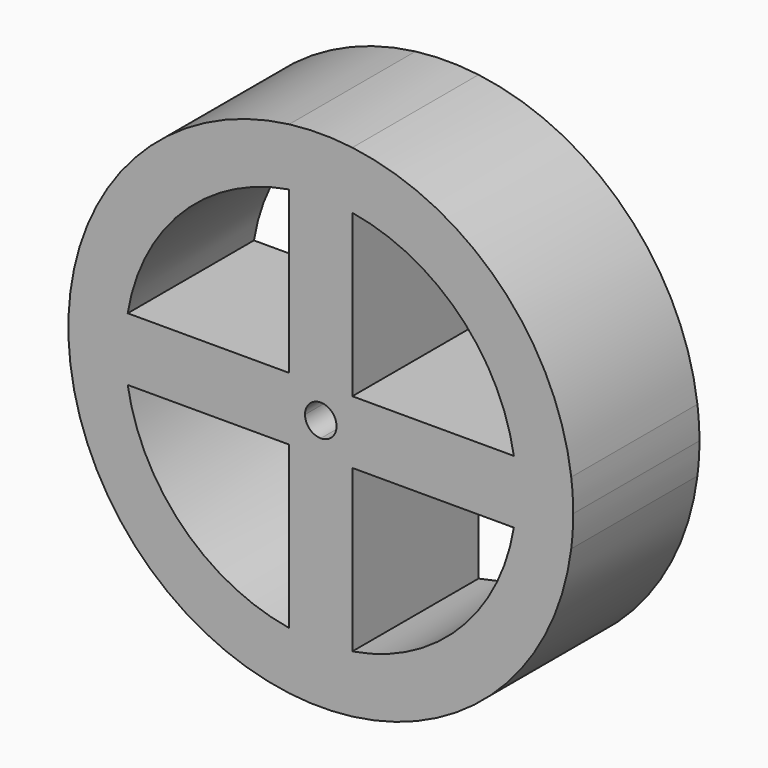
from build123d import *

# Parameters (mm, degrees)
F1_DEPTH = 25


with BuildPart() as f1:
    # F0 (on Front) → F1 (new body)
    with BuildSketch(Plane.XZ):
        with BuildLine():
            ThreePointArc((39.68627, -5), (39.92149, -2.504917), (40, 0))
            ThreePointArc((40, 0), (39.92149, 2.504916), (39.68627, 5))
            ThreePointArc((39.68627, 5), (28.284271, 28.284271), (5, 39.68627))
            ThreePointArc((5, 39.68627), (0, 40), (-5, 39.68627))
            ThreePointArc((-5, 39.68627), (-28.284271, 28.284271), (-39.68627, 5))
            ThreePointArc((-39.68627, 5), (-40, 0), (-39.68627, -5))
            ThreePointArc((-39.68627, -5), (-28.284271, -28.284271), (-5, -39.68627))
            ThreePointArc((-5, -39.68627), (0, -40), (5, -39.68627))
            ThreePointArc((5, -39.68627), (28.284271, -28.284271), (39.68627, -5))
        make_face()
        with BuildLine():
            Line((-30.594117, -5), (-5, -5))
            Line((-5, -5), (-5, -30.594117))
            ThreePointArc((-5, -30.594117), (-21.92031, -21.92031), (-30.594117, -5))
        make_face(mode=Mode.SUBTRACT)
        with BuildLine():
            Line((5, -5.59017), (5, -5))
            Line((5, -5), (5.59017, -5))
            Line((5.59017, -5), (30.594117, -5))
            ThreePointArc((30.594117, -5), (21.92031, -21.92031), (5, -30.594117))
            Line((5, -30.594117), (5, -5.59017))
        make_face(mode=Mode.SUBTRACT)
        with BuildLine():
            Line((-5, 30.594117), (-5, 5.59017))
            Line((-5, 5.59017), (-5, 5))
            Line((-5, 5), (-5.59017, 5))
            Line((-5.59017, 5), (-30.594117, 5))
            ThreePointArc((-30.594117, 5), (-21.92031, 21.92031), (-5, 30.594117))
        make_face(mode=Mode.SUBTRACT)
        with BuildLine():
            ThreePointArc((0, 2.5), (1.767767, 1.767767), (2.5, 0))
            ThreePointArc((2.5, 0), (1.767767, -1.767767), (0, -2.5))
            ThreePointArc((0, -2.5), (-1.767767, -1.767767), (-2.5, 0))
            ThreePointArc((-2.5, 0), (-1.767767, 1.767767), (0, 2.5))
        make_face(mode=Mode.SUBTRACT)
        with BuildLine():
            ThreePointArc((5, 30.594117), (21.92031, 21.92031), (30.594117, 5))
            Line((30.594117, 5), (5.59017, 5))
            Line((5.59017, 5), (5, 5))
            Line((5, 5), (5, 5.59017))
            Line((5, 5.59017), (5, 30.594117))
        make_face(mode=Mode.SUBTRACT)
        with BuildLine():
            ThreePointArc((0, -2.5), (1.767767, -1.767767), (2.5, 0))
            ThreePointArc((2.5, 0), (1.767767, 1.767767), (0, 2.5))
            ThreePointArc((0, 2.5), (-1.767767, 1.767767), (-2.5, 0))
            ThreePointArc((-2.5, 0), (-1.767767, -1.767767), (0, -2.5))
        make_face()
        with BuildLine():
            ThreePointArc((39.68627, -5), (39.92149, -2.504917), (40, 0))
            ThreePointArc((40, 0), (39.92149, 2.504916), (39.68627, 5))
            ThreePointArc((39.68627, 5), (28.284271, 28.284271), (5, 39.68627))
            ThreePointArc((5, 39.68627), (0, 40), (-5, 39.68627))
            ThreePointArc((-5, 39.68627), (-28.284271, 28.284271), (-39.68627, 5))
            ThreePointArc((-39.68627, 5), (-40, 0), (-39.68627, -5))
            ThreePointArc((-39.68627, -5), (-28.284271, -28.284271), (-5, -39.68627))
            ThreePointArc((-5, -39.68627), (0, -40), (5, -39.68627))
            ThreePointArc((5, -39.68627), (28.284271, -28.284271), (39.68627, -5))
        make_face()
        with BuildLine():
            Line((-30.594117, -5), (-5, -5))
            Line((-5, -5), (-5, -30.594117))
            ThreePointArc((-5, -30.594117), (-21.92031, -21.92031), (-30.594117, -5))
        make_face(mode=Mode.SUBTRACT)
        with BuildLine():
            Line((5, -5.59017), (5, -5))
            Line((5, -5), (5.59017, -5))
            Line((5.59017, -5), (30.594117, -5))
            ThreePointArc((30.594117, -5), (21.92031, -21.92031), (5, -30.594117))
            Line((5, -30.594117), (5, -5.59017))
        make_face(mode=Mode.SUBTRACT)
        with BuildLine():
            Line((-5, 30.594117), (-5, 5.59017))
            Line((-5, 5.59017), (-5, 5))
            Line((-5, 5), (-5.59017, 5))
            Line((-5.59017, 5), (-30.594117, 5))
            ThreePointArc((-30.594117, 5), (-21.92031, 21.92031), (-5, 30.594117))
        make_face(mode=Mode.SUBTRACT)
        with BuildLine():
            ThreePointArc((0, 2.5), (1.767767, 1.767767), (2.5, 0))
            ThreePointArc((2.5, 0), (1.767767, -1.767767), (0, -2.5))
            ThreePointArc((0, -2.5), (-1.767767, -1.767767), (-2.5, 0))
            ThreePointArc((-2.5, 0), (-1.767767, 1.767767), (0, 2.5))
        make_face(mode=Mode.SUBTRACT)
        with BuildLine():
            ThreePointArc((5, 30.594117), (21.92031, 21.92031), (30.594117, 5))
            Line((30.594117, 5), (5.59017, 5))
            Line((5.59017, 5), (5, 5))
            Line((5, 5), (5, 5.59017))
            Line((5, 5.59017), (5, 30.594117))
        make_face(mode=Mode.SUBTRACT)
    extrude(amount=F1_DEPTH)


solid = f1.part
